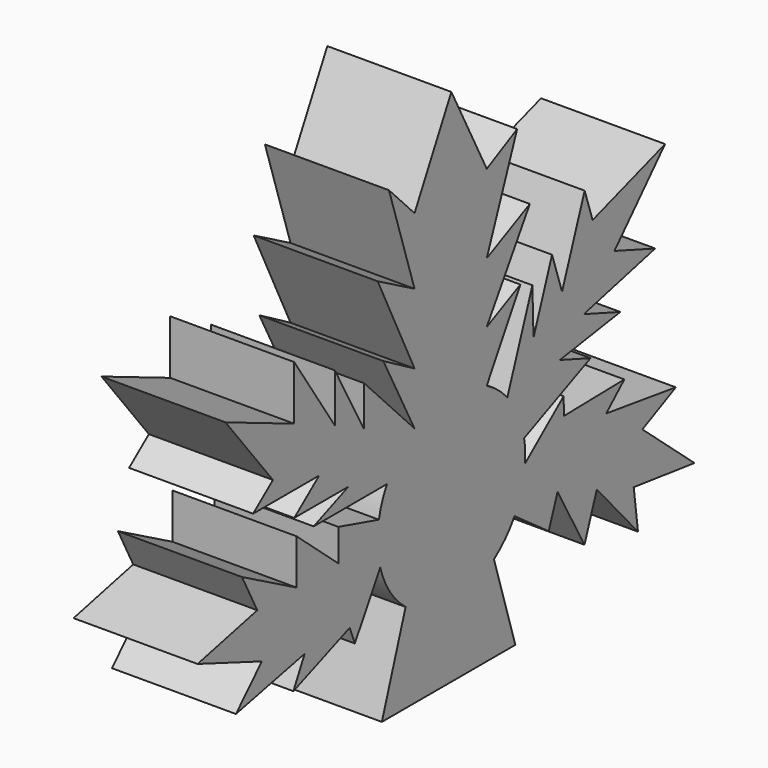
from build123d import *

# Parameters (mm, degrees)
F1_DEPTH = 25.4


with BuildPart() as f1:
    # F0 (on Right) → F1 (new body)
    with BuildSketch(Plane.YZ):
        with BuildLine():
            ThreePointArc((18.855748, -1.416255), (18.895578, -0.708625), (18.908861, 0))
            ThreePointArc((18.908861, 0), (18.838486, 1.629863), (18.627886, 3.247594))
            ThreePointArc((18.627886, 3.247594), (17.094445, 8.082386), (14.330997, 12.335621))
            ThreePointArc((14.330997, 12.335621), (11.890608, 14.702328), (9.065882, 16.593818))
            ThreePointArc((9.065882, 16.593818), (-0.204608, 18.907754), (-9.422852, 16.393745))
            ThreePointArc((-9.422852, 16.393745), (-13.441603, 13.299185), (-16.493181, 9.247701))
            ThreePointArc((-16.493181, 9.247701), (-17.741605, 6.540678), (-18.549073, 3.67109))
            ThreePointArc((-18.549073, 3.67109), (-18.89422, -0.743959), (-18.202995, -5.118202))
            ThreePointArc((-18.202995, -5.118202), (-15.727938, -10.496522), (-11.710979, -14.845807))
            ThreePointArc((-11.710979, -14.845807), (-0.498769, -18.902281), (10.911764, -15.442746))
            ThreePointArc((10.911764, -15.442746), (13.834686, -12.889782), (16.17484, -9.793853))
            ThreePointArc((16.17484, -9.793853), (18.009208, -5.763111), (18.855748, -1.416255))
        make_face()
        with BuildLine():
            ThreePointArc((14.330997, 12.335621), (17.094445, 8.082386), (18.627886, 3.247594))
            Line((18.627886, 3.247594), (35.620206, 10.771734))
            Line((35.620206, 10.771734), (27.777187, 13.626359))
            Line((27.777187, 13.626359), (43.256562, 15.996829))
            Line((43.256562, 15.996829), (33.913499, 19.397426))
            Line((33.913499, 19.397426), (52.177158, 23.806515))
            Line((52.177158, 23.806515), (41.743724, 27.603975))
            Line((41.743724, 27.603975), (54.702936, 41.603265))
            Line((54.702936, 41.603265), (36.156493, 35.442327))
            Line((36.156493, 35.442327), (34.117385, 41.580712))
            Line((34.117385, 41.580712), (28.336922, 25.699019))
            Line((28.336922, 25.699019), (25.773159, 33.416785))
            Line((25.773159, 33.416785), (21.026523, 20.375509))
            Line((21.026523, 20.375509), (20.743884, 29.954885))
            Line((20.743884, 29.954885), (14.330997, 12.335621))
        make_face()
        with BuildLine():
            Line((28.741808, 6.718539), (18.855748, -1.416255))
            ThreePointArc((18.855748, -1.416255), (18.009208, -5.763111), (16.17484, -9.793853))
            Line((16.17484, -9.793853), (24.926406, -16.084017))
            Line((24.926406, -16.084017), (27.179874, -9.892665))
            Line((27.179874, -9.892665), (34.0759, -22.243811))
            Line((34.0759, -22.243811), (37.2388, -13.553815))
            Line((37.2388, -13.553815), (47.768776, -25.455565))
            Line((47.768776, -25.455565), (46.683991, -16.991583))
            Line((46.683991, -16.991583), (62.231524, -18.952553))
            Line((62.231524, -18.952553), (48.904825, -7.480339))
            Line((48.904825, -7.480339), (57.452464, -3.363933))
            Line((57.452464, -3.363933), (39.655712, -0.83815))
            Line((39.655712, -0.83815), (44.267129, 3.420753))
            Line((44.267129, 3.420753), (28.815001, 3.107546))
            Line((28.815001, 3.107546), (28.741808, 6.718539))
        make_face()
        with BuildLine():
            ThreePointArc((-9.422852, 16.393745), (-0.204608, 18.907754), (9.065882, 16.593818))
            Line((9.065882, 16.593818), (17.664263, 31.343678))
            Line((17.664263, 31.343678), (9.065882, 27.197644))
            Line((9.065882, 27.197644), (20.08703, 44.887555))
            Line((20.08703, 44.887555), (9.065882, 39.573293))
            Line((9.065882, 39.573293), (16.843367, 59.706657))
            Line((16.843367, 59.706657), (9.065882, 55.690415))
            Line((9.065882, 55.690415), (0, 73.246568))
            Line((0, 73.246568), (-9.422852, 55.211404))
            Line((-9.422852, 55.211404), (-15.973218, 62.022142))
            Line((-15.973218, 62.022142), (-9.422852, 41.58793))
            Line((-9.422852, 41.58793), (-18.851278, 46.768438))
            Line((-18.851278, 46.768438), (-9.422852, 27.215003))
            Line((-9.422852, 27.215003), (-17.412247, 31.802535))
            Line((-17.412247, 31.802535), (-9.422852, 16.393745))
        make_face()
        with BuildLine():
            Line((16.388254, -33.097774), (10.911764, -15.442746))
            ThreePointArc((10.911764, -15.442746), (-0.498769, -18.902281), (-11.710979, -14.845807))
            Line((-11.710979, -14.845807), (-17.786112, -33.097774))
            Line((-17.786112, -33.097774), (16.388254, -33.097774))
        make_face()
        with BuildLine():
            ThreePointArc((-16.493181, 9.247701), (-13.441603, 13.299185), (-9.422852, 16.393745))
            Line((-9.422852, 16.393745), (-22.304947, 29.787894))
            Line((-22.304947, 29.787894), (-22.304947, 21.441529))
            Line((-22.304947, 21.441529), (-29.826717, 35.176635))
            Line((-29.826717, 35.176635), (-29.826717, 25.233954))
            Line((-29.826717, 25.233954), (-40.216446, 40.888183))
            Line((-40.216446, 40.888183), (-40.216446, 29.785154))
            Line((-40.216446, 29.785154), (-57.803787, 37.174791))
            Line((-57.803787, 37.174791), (-45.671143, 21.854))
            Line((-45.671143, 21.854), (-50.741921, 17.838414))
            Line((-50.741921, 17.838414), (-33.840977, 17.838414))
            Line((-33.840977, 17.838414), (-40.216446, 12.789634))
            Line((-40.216446, 12.789634), (-26.33821, 12.789634))
            Line((-26.33821, 12.789634), (-35.24321, 9.247701))
            Line((-35.24321, 9.247701), (-16.493181, 9.247701))
        make_face()
        with BuildLine():
            Line((-24.710589, -16.143639), (-18.202995, -5.118202))
            ThreePointArc((-18.202995, -5.118202), (-18.89422, -0.743959), (-18.549073, 3.67109))
            Line((-18.549073, 3.67109), (-28.924217, 6.588699))
            Line((-28.924217, 6.588699), (-28.924217, 0))
            Line((-28.924217, 0), (-39.628703, 9.247701))
            Line((-39.628703, 9.247701), (-39.628703, 0))
            Line((-39.628703, 0), (-53.594282, 7.582523))
            Line((-53.594282, 7.582523), (-49.680065, 0))
            Line((-49.680065, 0), (-64.960659, -3.474861))
            Line((-64.960659, -3.474861), (-48.51393, -9.697216))
            Line((-48.51393, -9.697216), (-55.138189, -16.488837))
            Line((-55.138189, -16.488837), (-37.550844, -12.775449))
            Line((-37.550844, -12.775449), (-40.427528, -18.354706))
            Line((-40.427528, -18.354706), (-26.014401, -12.775449))
            Line((-26.014401, -12.775449), (-24.710589, -16.143639))
        make_face()
    extrude(amount=F1_DEPTH)


solid = f1.part
